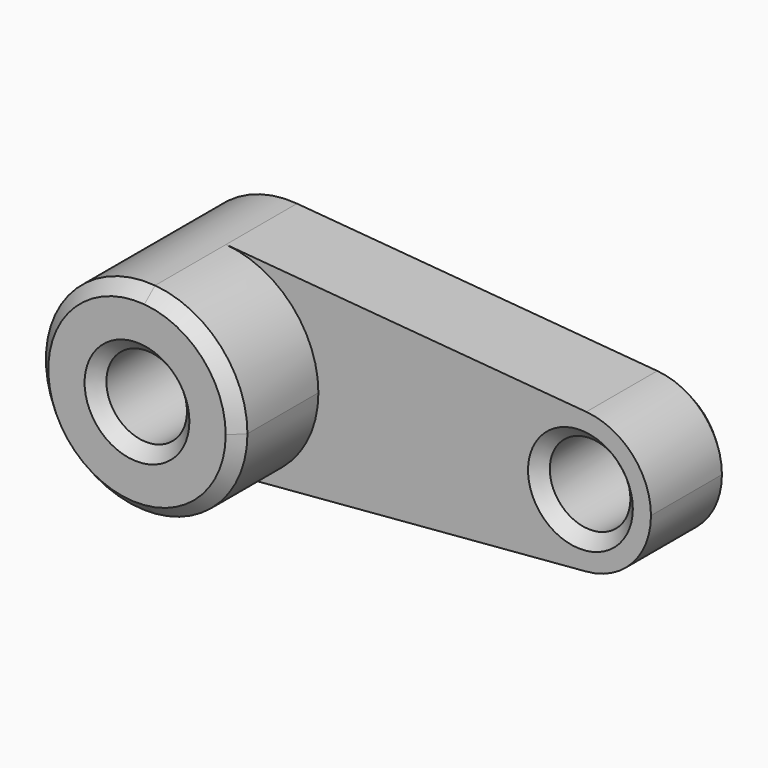
from build123d import *

# Parameters (mm, degrees)
F0_R     = 10
F1_DEPTH = 25
F2_DEPTH = 50
F3_SIZE  = 3
F4_SIZE  = 3


with BuildPart() as f1:
    # F0 (on Front) → F1 (new body)
    with BuildSketch(Plane.XZ):
        with BuildLine():
            ThreePointArc((2.083333, -24.913043), (18.399502, -16.92508), (25, 0))
            ThreePointArc((25, 0), (18.399502, 16.92508), (2.083333, 24.913043))
            ThreePointArc((2.083333, 24.913043), (-25, 0), (2.083333, -24.913043))
        make_face()
        Circle(F0_R, mode=Mode.SUBTRACT)
        with BuildLine():
            ThreePointArc((2.083333, 24.913043), (18.399502, 16.92508), (25, 0))
            ThreePointArc((25, 0), (18.399502, -16.92508), (2.083333, -24.913043))
            Line((2.083333, -24.913043), (91.458333, -17.43913))
            ThreePointArc((91.458333, -17.43913), (72.5, 0), (91.458333, 17.43913))
            Line((91.458333, 17.43913), (2.083333, 24.913043))
        make_face()
        with BuildLine():
            ThreePointArc((107.5, 0), (102.879651, 11.847556), (91.458333, 17.43913))
            ThreePointArc((91.458333, 17.43913), (72.5, 0), (91.458333, -17.43913))
            ThreePointArc((91.458333, -17.43913), (102.879651, -11.847556), (107.5, 0))
        make_face()
        with Locations((90, 0)):
            Circle(F0_R, mode=Mode.SUBTRACT)
    extrude(amount=F1_DEPTH)

    # F0 (on Front) → F2 (join)
    with BuildSketch(Plane.XZ):
        with BuildLine():
            ThreePointArc((2.083333, -24.913043), (18.399502, -16.92508), (25, 0))
            ThreePointArc((25, 0), (18.399502, 16.92508), (2.083333, 24.913043))
            ThreePointArc((2.083333, 24.913043), (-25, 0), (2.083333, -24.913043))
        make_face()
        Circle(F0_R, mode=Mode.SUBTRACT)
    extrude(amount=F2_DEPTH)

    # F3
    f3_edges = [f1.edges().sort_by_distance(p)[0] for p in [
        (-2.083333, -50, 24.913043),
        (-10, -50, 0),
        (80, -25, 0),
    ]]
    chamfer(f3_edges, length=F3_SIZE)

    # F4
    f4_edges = [f1.edges().sort_by_distance(p)[0] for p in [
        (80, 0, 0),
        (-10, 0, 0),
        (-25, 0, 0),
        (46.770833, 0, -21.176087),
        (46.770833, 0, 21.176087),
        (107.5, 0, 0),
    ]]
    chamfer(f4_edges, length=F4_SIZE)


solid = f1.part
